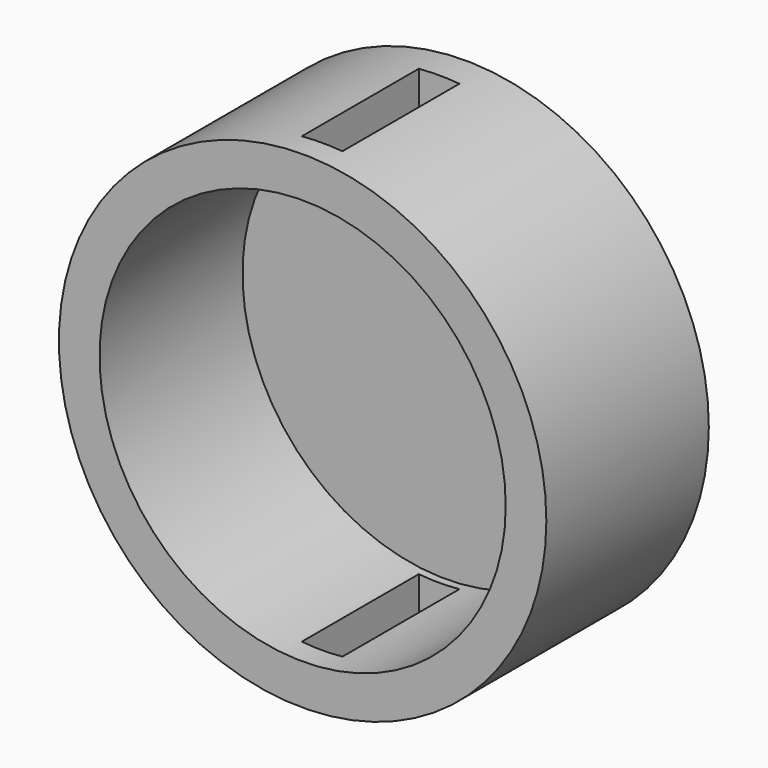
from build123d import *

# Parameters (mm, degrees)
SKETCH003_W  = 5
SKETCH003_H  = 18
PAD002_DEPTH = 37.5
SKETCH_R     = 30
PAD_DEPTH    = 12.5
SKETCH001_R  = 25
POCKET_DEPTH = 22
SKETCH002_W  = 10
SKETCH002_H  = 10
PAD001_DEPTH = 5


with BuildPart() as pad002:
    # Sketch003 → Pad002 (new body, symmetric)
    with BuildSketch(Plane.XY):
        with Locations((0, -0.5)):
            Rectangle(SKETCH003_W, SKETCH003_H)
    extrude(amount=PAD002_DEPTH, both=True)


with BuildPart() as cut:
    # Sketch → Pad (new body, symmetric)
    with BuildSketch(Plane.XZ):
        Circle(SKETCH_R)
    extrude(amount=PAD_DEPTH, both=True)

    # Sketch001 → Pocket (cut)
    with BuildSketch(Plane.XZ.offset(12.5)):
        Circle(SKETCH001_R)
    extrude(amount=-POCKET_DEPTH, mode=Mode.SUBTRACT)

    # Sketch002 → Pad001 (new body)
    with BuildSketch(Plane(origin=(0, 12.5, 0), x_dir=(1, 0, 0), z_dir=(0, 1, 0))):
        Rectangle(SKETCH002_W, SKETCH002_H)
    extrude(amount=PAD001_DEPTH)

    # Cut: cut Pad002
    add(pad002.part, mode=Mode.SUBTRACT)


solid = cut.part
